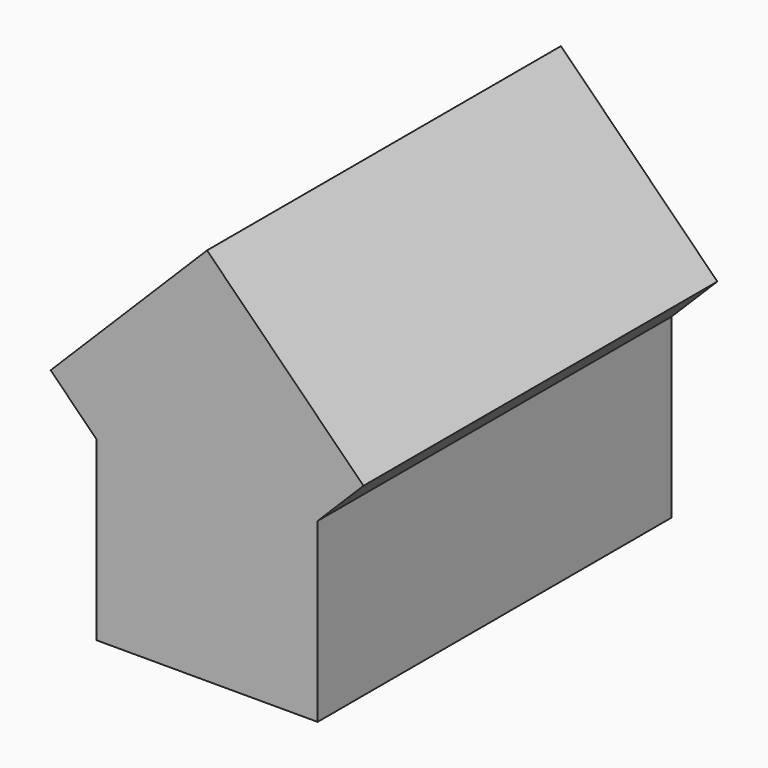
from build123d import *

# Parameters (mm, degrees)
BOX001_W               = 10
BOX001_H               = 20
BOX001_DEPTH           = 10
BOX001_PLACEMENT_ANGLE = 315
BOX_W                  = 10
BOX_H                  = 20
BOX_DEPTH              = 10


with BuildPart() as cubo001:
    # Box001 → Box001 (new body)
    with BuildSketch(Plane.XY):
        with Locations((5, 10)):
            Rectangle(BOX001_W, BOX001_H)
    extrude(amount=BOX001_DEPTH)


with BuildPart() as cubo001_1:
    # Box001 placement: moved
    add(cubo001.part.moved(Location((0, -10, 3))).rotate(Axis((0, -10, 3), (0, 1, 0)), BOX001_PLACEMENT_ANGLE))


with BuildPart() as fusion:
    # Box → Box (new body)
    with BuildSketch(Plane(origin=(-5, -10, 0), x_dir=(1, 0, 0), z_dir=(0, 0, 1))):
        with Locations((5, 10)):
            Rectangle(BOX_W, BOX_H)
    extrude(amount=BOX_DEPTH)

    # Fusion: union Cubo001
    add(cubo001_1.part)


solid = fusion.part
